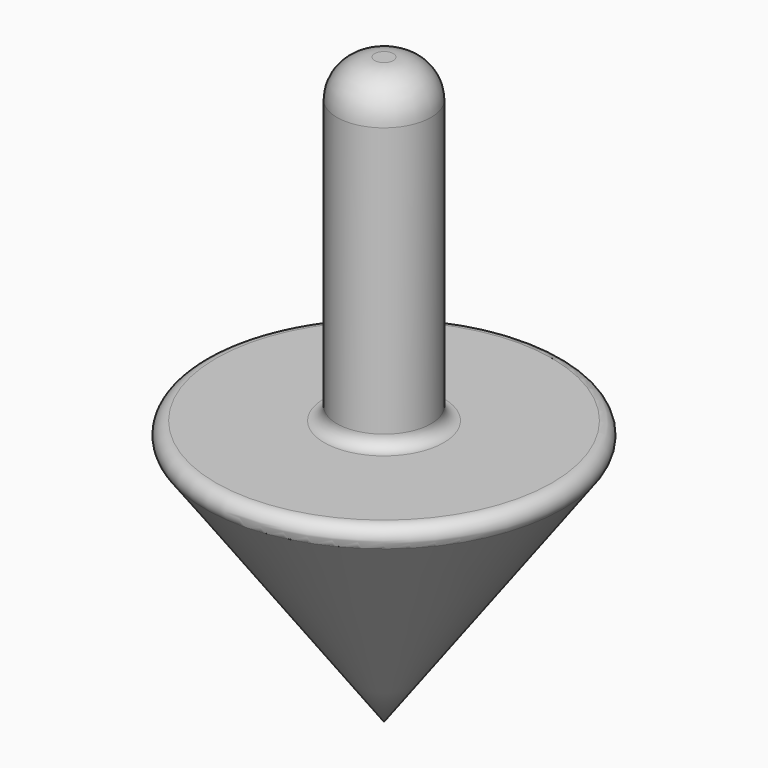
from build123d import *

# Parameters (mm, degrees)
F2_R = 1.22642
F3_R = 3.679261


with BuildPart() as f1:
    # F0 (on Front) → F1 (revolve)
    with BuildSketch(Plane.XZ):
        Polygon((0, 57.015903), (0, 0), (18.798783, 25.838224), (4.593469, 25.838224), (4.593469, 57.015903), align=None)
    revolve(axis=Axis((0, 0, 28.507952), (0, 0, 1)))

    # F2
    f2_edges = [f1.edges().sort_by_distance(p)[0] for p in [
        (-18.798783, 0, 25.838224),
        (-4.593469, 0, 25.838224),
    ]]
    fillet(f2_edges, radius=F2_R)

    # F3
    f3_edges = [f1.edges().sort_by_distance(p)[0] for p in [
        (-4.593469, 0, 57.015903),
    ]]
    fillet(f3_edges, radius=F3_R)


solid = f1.part
